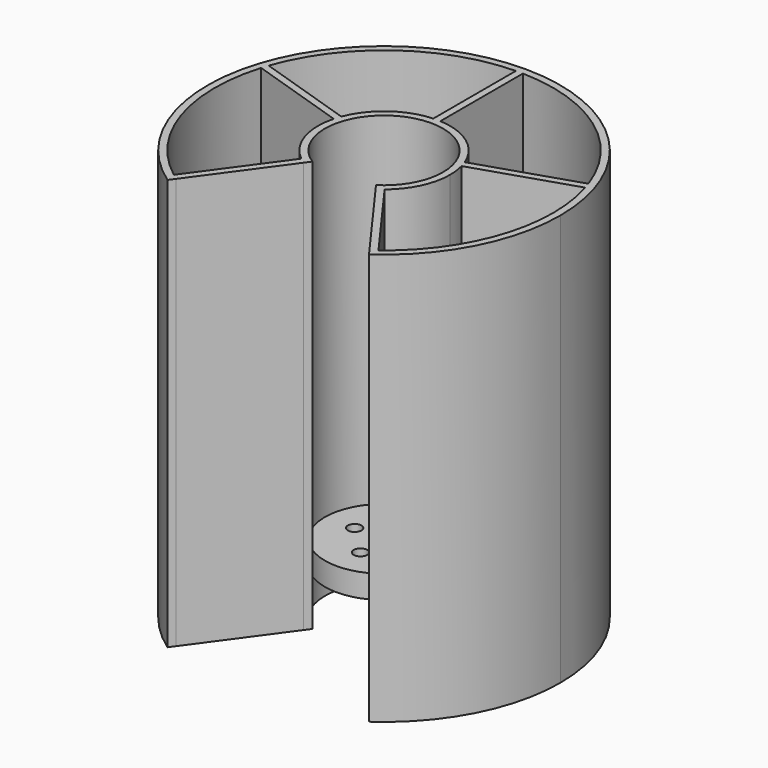
from build123d import *

# Parameters (mm, degrees)
F1_DEPTH = 88.9
F3_R     = 12.7635
F4_DEPTH = 5
F5_D     = 2.9464
F6_D     = 4


with BuildPart() as f1:
    # F0 (on Top) → F1 (new body)
    with BuildSketch(Plane.XY):
        with BuildLine():
            ThreePointArc((-8.3979817921, -11.5588303071), (-8.0866479786, -11.7787427479), (-7.7695585406, -11.9902717373))
            Line((-7.7695585406, -11.9902717373), (-6.8723442619, -10.7553622252))
            ThreePointArc((-6.8723442619, -10.7553622252), (-6.1315481839, 11.194241784), (12.7635, 0))
            ThreePointArc((12.7635, 0), (11.194241784, -6.1315481839), (6.8723442619, -10.7553622252))
            Line((6.8723442619, -10.7553622252), (7.7695585406, -11.9902717373))
            ThreePointArc((7.7695585406, -11.9902717373), (8.0866479786, -11.7787427479), (8.3979817921, -11.5588303071))
            ThreePointArc((8.3979817921, -11.5588303071), (8.7033383912, -11.3306909365), (9.00250044, -11.0944870128))
            ThreePointArc((9.00250044, -11.0944870128), (12.8987573294, -6.1444866023), (14.2875, 0))
            ThreePointArc((14.2875, 0), (14.1661979921, 1.8578188013), (13.8043516957, 3.6840915448))
            ThreePointArc((13.8043516957, 3.6840915448), (13.701161697, 4.0510275736), (13.5882199766, 4.4150803071))
            ThreePointArc((13.5882199766, 4.4150803071), (13.46560692, 4.7759906331), (13.3334097963, 5.1335016756))
            ThreePointArc((13.3334097963, 5.1335016756), (8.3979817921, 11.5588303071), (0.762, 14.2671655296))
            ThreePointArc((0.762, 14.2671655296), (0.3811356355, 14.2824154777), (0, 14.2875))
            ThreePointArc((0, 14.2875), (-0.3811356355, 14.2824154777), (-0.762, 14.2671655296))
            ThreePointArc((-0.762, 14.2671655296), (-8.3979817921, 11.5588303071), (-13.3334097963, 5.1335016756))
            ThreePointArc((-13.3334097963, 5.1335016756), (-13.4656069199, 4.7759906331), (-13.5882199766, 4.4150803071))
            ThreePointArc((-13.5882199766, 4.4150803071), (-13.701161697, 4.0510275736), (-13.8043516957, 3.6840915448))
            ThreePointArc((-13.8043516957, 3.6840915448), (-13.5882199766, -4.4150803071), (-9.00250044, -11.0944870128))
            ThreePointArc((-9.00250044, -11.0944870128), (-8.7033383912, -11.3306909365), (-8.3979817921, -11.5588303071))
        make_face()
        with BuildLine():
            ThreePointArc((0, 36.576), (-0.3810206745, 36.5740153558), (-0.762, 36.5680616385))
            Line((-0.762, 36.5680616385), (-0.762, 14.2671655296))
            ThreePointArc((-0.762, 14.2671655296), (-0.3811356355, 14.2824154777), (0, 14.2875))
            Line((0, 14.2875), (0, 36.576))
        make_face()
        with BuildLine():
            ThreePointArc((0.762, 36.5680616385), (0.3810206745, 36.5740153558), (0, 36.576))
            Line((0, 36.576), (0, 14.2875))
            ThreePointArc((0, 14.2875), (0.3811356355, 14.2824154777), (0.762, 14.2671655296))
            Line((0.762, 14.2671655296), (0.762, 36.5680616385))
        make_face()
        with BuildLine():
            Line((13.5882199766, 4.4150803071), (34.78584314, 11.3026055863))
            ThreePointArc((34.78584314, 11.3026055863), (34.6662137676, 11.6643644928), (34.5428223599, 12.0248575631))
            Line((34.5428223599, 12.0248575631), (13.3334097963, 5.1335016756))
            ThreePointArc((13.3334097963, 5.1335016756), (13.46560692, 4.7759906331), (13.5882199766, 4.4150803071))
        make_face()
        with BuildLine():
            Line((13.8043516957, 3.6840915448), (35.0137642593, 10.5754474322))
            ThreePointArc((35.0137642593, 10.5754474322), (34.9016974948, 10.9396201021), (34.78584314, 11.3026055863))
            Line((34.78584314, 11.3026055863), (13.5882199766, 4.4150803071))
            ThreePointArc((13.5882199766, 4.4150803071), (13.701161697, 4.0510275736), (13.8043516957, 3.6840915448))
        make_face()
        with BuildLine():
            ThreePointArc((-34.5428223599, 12.0248575631), (-34.6662137676, 11.6643644928), (-34.78584314, 11.3026055863))
            Line((-34.78584314, 11.3026055863), (-13.5882199766, 4.4150803071))
            ThreePointArc((-13.5882199766, 4.4150803071), (-13.4656069199, 4.7759906331), (-13.3334097963, 5.1335016756))
            Line((-13.3334097963, 5.1335016756), (-34.5428223599, 12.0248575631))
        make_face()
        with BuildLine():
            ThreePointArc((-34.78584314, 11.3026055863), (-34.9016974948, 10.9396201021), (-35.0137642593, 10.5754474322))
            Line((-35.0137642593, 10.5754474322), (-13.8043516957, 3.6840915448))
            ThreePointArc((-13.8043516957, 3.6840915448), (-13.701161697, 4.0510275736), (-13.5882199766, 4.4150803071))
            Line((-13.5882199766, 4.4150803071), (-34.78584314, 11.3026055863))
        make_face()
        with BuildLine():
            ThreePointArc((21.773667791, -31.2652745218), (33.7726719615, -17.6356635424), (38.1, 0))
            ThreePointArc((38.1, 0), (-17.6356635424, 33.7726719615), (-21.773667791, -31.2652745218))
            Line((-21.773667791, -31.2652745218), (-20.8776963863, -30.0320756792))
            ThreePointArc((-20.8776963863, -30.0320756792), (-21.1894146424, -29.8129583087), (-21.4988333878, -29.5906055863))
            ThreePointArc((-21.4988333878, -29.5906055863), (-21.8059190441, -29.3650416421), (-22.1106382858, -29.1362909547))
            ThreePointArc((-22.1106382858, -29.1362909547), (-34.78584314, -11.3026055863), (-35.0137642593, 10.5754474322))
            ThreePointArc((-35.0137642593, 10.5754474322), (-34.9016974948, 10.9396201021), (-34.78584314, 11.3026055863))
            ThreePointArc((-34.78584314, 11.3026055863), (-34.6662137676, 11.6643644928), (-34.5428223599, 12.0248575631))
            ThreePointArc((-34.5428223599, 12.0248575631), (-21.4988333878, 29.5906055863), (-0.762, 36.5680616385))
            ThreePointArc((-0.762, 36.5680616385), (-0.3810206745, 36.5740153558), (0, 36.576))
            ThreePointArc((0, 36.576), (0.3810206745, 36.5740153558), (0.762, 36.5680616385))
            ThreePointArc((0.762, 36.5680616385), (21.4988333878, 29.5906055863), (34.5428223599, 12.0248575631))
            ThreePointArc((34.5428223599, 12.0248575631), (34.6662137676, 11.6643644928), (34.78584314, 11.3026055863))
            ThreePointArc((34.78584314, 11.3026055863), (34.9016974948, 10.9396201021), (35.0137642593, 10.5754474322))
            ThreePointArc((35.0137642593, 10.5754474322), (36.183333301, 5.3451068488), (36.576, 0))
            ThreePointArc((36.576, 0), (32.7606660642, -16.264763602), (22.1106382858, -29.1362909547))
            ThreePointArc((22.1106382858, -29.1362909547), (21.8059190441, -29.3650416421), (21.4988333878, -29.5906055863))
            ThreePointArc((21.4988333878, -29.5906055863), (21.1894146424, -29.8129583087), (20.8776963863, -30.0320756792))
            Line((20.8776963863, -30.0320756792), (21.773667791, -31.2652745218))
        make_face()
        with BuildLine():
            Line((7.7695585406, -11.9902717373), (20.8776963863, -30.0320756792))
            ThreePointArc((20.8776963863, -30.0320756792), (21.1894146424, -29.8129583087), (21.4988333878, -29.5906055863))
            Line((21.4988333878, -29.5906055863), (8.3979817921, -11.5588303071))
            ThreePointArc((8.3979817921, -11.5588303071), (8.0866479786, -11.7787427479), (7.7695585406, -11.9902717373))
        make_face()
        with BuildLine():
            Line((8.3979817921, -11.5588303071), (21.4988333878, -29.5906055863))
            ThreePointArc((21.4988333878, -29.5906055863), (21.8059190441, -29.3650416421), (22.1106382858, -29.1362909547))
            Line((22.1106382858, -29.1362909547), (9.00250044, -11.0944870128))
            ThreePointArc((9.00250044, -11.0944870128), (8.7033383912, -11.3306909365), (8.3979817921, -11.5588303071))
        make_face()
        with BuildLine():
            ThreePointArc((-21.4988333878, -29.5906055863), (-21.1894146424, -29.8129583087), (-20.8776963863, -30.0320756792))
            Line((-20.8776963863, -30.0320756792), (-7.7695585406, -11.9902717373))
            ThreePointArc((-7.7695585406, -11.9902717373), (-8.0866479786, -11.7787427479), (-8.3979817921, -11.5588303071))
            Line((-8.3979817921, -11.5588303071), (-21.4988333878, -29.5906055863))
        make_face()
        with BuildLine():
            ThreePointArc((-22.1106382858, -29.1362909547), (-21.8059190441, -29.3650416421), (-21.4988333878, -29.5906055863))
            Line((-21.4988333878, -29.5906055863), (-8.3979817921, -11.5588303071))
            ThreePointArc((-8.3979817921, -11.5588303071), (-8.7033383912, -11.3306909365), (-9.00250044, -11.0944870128))
            Line((-9.00250044, -11.0944870128), (-22.1106382858, -29.1362909547))
        make_face()
    extrude(amount=F1_DEPTH)

    # F3 (on offset) → F4 (join)
    with BuildSketch(Plane.XY.offset(10)):
        Circle(F3_R)
    extrude(amount=F4_DEPTH)

    # F5 (through all)
    with Locations(Plane(origin=(0, 0, 10), x_dir=(1, 0, 0), z_dir=(0, 0, -1))):
        with Locations((0, -6.35), (6.35, 0), (0, 6.35), (-6.35, 0)):
            Hole(F5_D / 2)

    # F6 (through all)
    with Locations(Plane(origin=(0, 0, 10), x_dir=(1, 0, 0), z_dir=(0, 0, -1))):
        with Locations((0, 0)):
            Hole(F6_D / 2)


solid = f1.part
